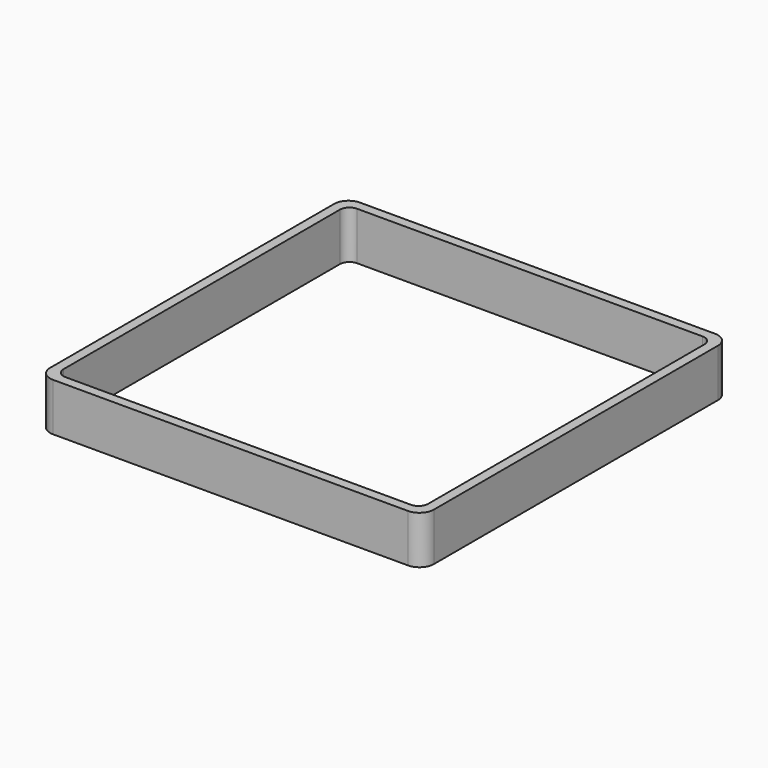
from build123d import *

# Parameters (mm, degrees)
EXTRUDE_DEPTH = 50


with BuildPart() as part:
    # Sketch → Extrude (new body)
    with BuildSketch(Plane.XY):
        with BuildLine():
            Line((-185, 200), (185, 200))
            ThreePointArc((200, 185), (195.606602, 195.606602), (185, 200))
            Line((200, 185), (200, -185))
            ThreePointArc((185, -200), (195.606602, -195.606602), (200, -185))
            Line((185, -200), (-185, -200))
            ThreePointArc((-200, -185), (-195.606602, -195.606602), (-185, -200))
            Line((-200, -185), (-200, 185))
            ThreePointArc((-185, 200), (-195.606602, 195.606602), (-200, 185))
        make_face()
        with BuildLine():
            Line((-180, 190), (180, 190))
            ThreePointArc((190, 180), (187.071068, 187.071068), (180, 190))
            Line((190, 180), (190, -180))
            ThreePointArc((180, -190), (187.071068, -187.071068), (190, -180))
            Line((180, -190), (-180, -190))
            ThreePointArc((-190, -180), (-187.071068, -187.071068), (-180, -190))
            Line((-190, -180), (-190, 180))
            ThreePointArc((-180, 190), (-187.071068, 187.071068), (-190, 180))
        make_face(mode=Mode.SUBTRACT)
    extrude(amount=EXTRUDE_DEPTH)


solid = part.part
